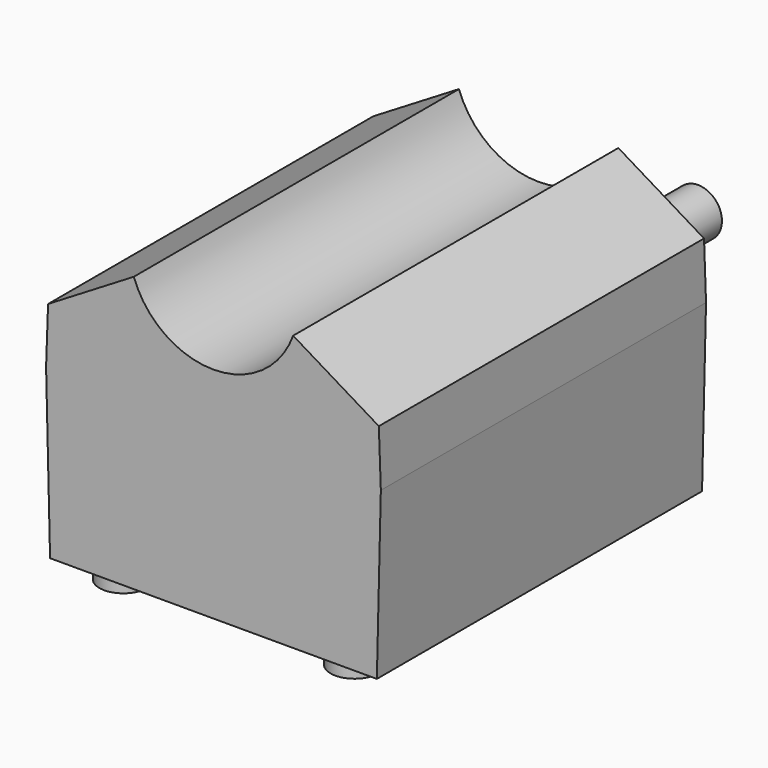
from build123d import *

# Parameters (mm, degrees)
F1_DEPTH = 102
F2_R     = 6
F3_DEPTH = 50
F4_R     = 6
F5_DEPTH = 4


with BuildPart() as f1:
    # F0 (on Front) → F1 (new body)
    with BuildSketch(Plane.XZ):
        with BuildLine():
            Line((-41, 4), (0, 4))
            Line((0, 4), (41, 4))
            Line((41, 4), (42, 46))
            Line((42, 46), (41.5, 60))
            Line((41.5, 60), (20, 73))
            ThreePointArc((20, 73), (0, 59), (-20, 73))
            Line((-20, 73), (-41.5, 60))
            Line((-41.5, 60), (-42, 46))
            Line((-42, 46), (-41, 4))
        make_face()
    extrude(amount=-F1_DEPTH)

    # F2 (on face) → F3 (join)
    with BuildSketch(Plane(origin=(0, 102, 0), x_dir=(-1, 0, 0), z_dir=(0, 1, 0))):
        with Locations((0, 32)):
            Circle(F2_R)
    extrude(amount=F3_DEPTH)

    # F4 (on face) → F5 (join)
    with BuildSketch(Plane(origin=(0, 0, 4), x_dir=(1, 0, 0), z_dir=(0, 0, -1))):
        with Locations((29, -94)):
            Circle(F4_R)
        with Locations((-29, -94)):
            Circle(F4_R)
        with Locations((-29, -8)):
            Circle(F4_R)
        with Locations((29, -8)):
            Circle(F4_R)
    extrude(amount=F5_DEPTH)


solid = f1.part
